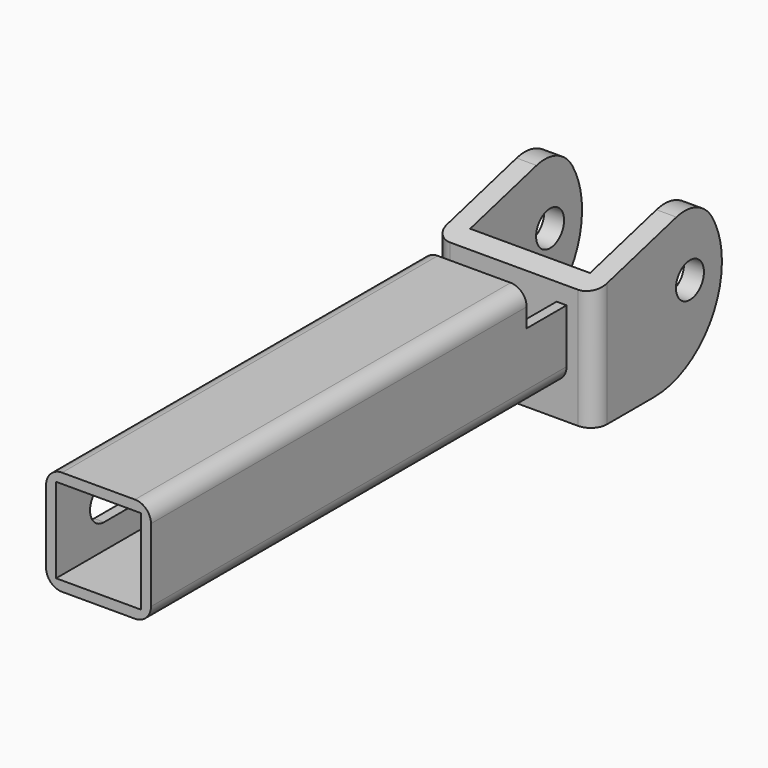
from build123d import *

# Parameters (mm, degrees)
F0_W      = 33.3375
F0_H      = 33.3502
F0_W_2    = 26.9875
F0_H_2    = 27.0002
F1_DEPTH  = 165.1
F2_W      = 15.875
F2_H      = 11.1125
F3_DEPTH  = 33.3385
F5_DEPTH  = 26.9875
F7_DEPTH  = 50.801
F8_R      = 5.08
F9_R      = 12.7
F11_D     = 11.1125
F13_DEPTH = 3.175


with BuildPart() as f1:
    # F0 (on Front) → F1 (new body)
    with BuildSketch(Plane.XZ):
        Rectangle(F0_W, F0_H)
        Rectangle(F0_W_2, F0_H_2, mode=Mode.SUBTRACT)
    extrude(amount=-F1_DEPTH)

    # F2 (on face) → F3 (cut, through all)
    with BuildSketch(Plane(origin=(-16.66875, 0, 0), x_dir=(0, -1, 0), z_dir=(-1, 0, 0))):
        with Locations((-157.1625, 11.11885)):
            Rectangle(F2_W, F2_H)
    extrude(amount=-F3_DEPTH, mode=Mode.SUBTRACT)

    # F4 (on Top) → F5 (join, symmetric)
    with BuildSketch(Plane.XY):
        Polygon((-25.4, 165.1), (25.4, 165.1), (25.4, 215.9), (19.05, 215.9), (19.05, 171.45), (-19.05, 171.45), (-19.05, 215.9), (-25.4, 215.9), align=None)
    extrude(amount=F5_DEPTH, both=True)

    # F6 (on face) → F7 (cut, through all)
    with BuildSketch(Plane(origin=(-25.4, 0, 0), x_dir=(0, -1, 0), z_dir=(-1, 0, 0))):
        with BuildLine():
            ThreePointArc((-215.9, -7.09e-08), (-213.0223149727, 12.1260866825), (-205.002956628, 21.6661570601))
            Line((-205.002956628, 21.6661570601), (-165.1, 11.1125))
            Line((-165.1, 11.1125), (-165.1, 26.9875))
            Line((-165.1, 26.9875), (-215.9, 26.9875))
            Line((-215.9, 26.9875), (-215.9, -7.09e-08))
        make_face()
        with BuildLine():
            ThreePointArc((-188.9125, -26.9875), (-207.9955442322, -19.0830442823), (-215.9, -7.09e-08))
            Line((-215.9, -7.09e-08), (-215.9, -26.9875))
            Line((-215.9, -26.9875), (-188.9125, -26.9875))
        make_face()
    extrude(amount=-F7_DEPTH, mode=Mode.SUBTRACT)

    # F8
    f8_edges = [f1.edges().sort_by_distance(p)[0] for p in [
        (-25.4, 165.1, -7.9375),
        (25.4, 165.1, -7.9375),
        (-16.66875, 74.6125, 16.6751),
        (16.66875, 74.6125, 16.6751),
        (-16.66875, 82.55, -16.6751),
        (16.66875, 82.55, -16.6751),
    ]]
    fillet(f8_edges, radius=F8_R)

    # F9
    f9_edges = [f1.edges().sort_by_distance(p)[0] for p in [
        (22.225, 205.002957, 21.666157),
        (-22.225, 205.002957, 21.666157),
    ]]
    fillet(f9_edges, radius=F9_R)

    # F11 (through all)
    with Locations(Plane(origin=(-25.4, 0, 0), x_dir=(0, -1, 0), z_dir=(-1, 0, 0))):
        with Locations((-203.2, 0)):
            Hole(F11_D / 2)

    # F12 (on face) → F13 (cut, through all)
    with BuildSketch(Plane(origin=(-16.66875, 0, 0), x_dir=(0, -1, 0), z_dir=(-1, 0, 0))):
        with BuildLine():
            Line((-19.05, 5.55625), (-133.35, 5.55625))
            ThreePointArc((-133.35, 5.55625), (-138.90625, 0), (-133.35, -5.55625))
            Line((-133.35, -5.55625), (-19.05, -5.55625))
            ThreePointArc((-19.05, -5.55625), (-13.49375, 0), (-19.05, 5.55625))
        make_face()
    extrude(amount=-F13_DEPTH, mode=Mode.SUBTRACT)


solid = f1.part
